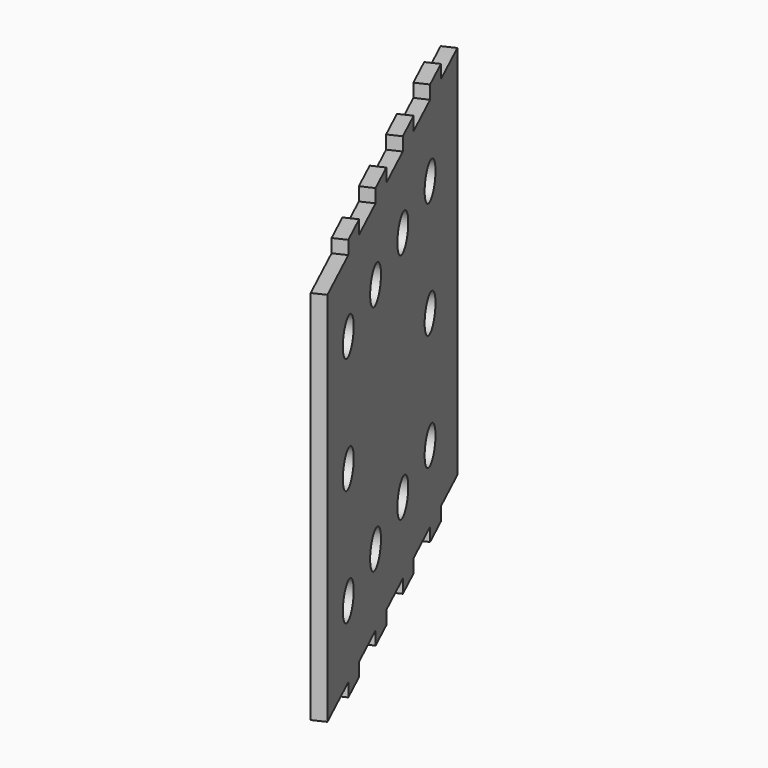
from build123d import *

# Parameters (mm, degrees)
F1_DEPTH  = 533.4
F3_DEPTH  = 19.05
F5_DEPTH  = 19.05
F7_R      = 25.4
F8_DEPTH  = 19.05
F9_R      = 25.4
F10_DEPTH = 25.4


with BuildPart() as f1:
    # F0 (on Top) → F1 (new body)
    with BuildSketch(Plane.XY):
        Polygon((-257.6280923571, 552.4852269775), (0, 0), (17.265163343, 8.0508778862), (-240.3629290141, 560.5361048637), align=None)
    extrude(amount=F1_DEPTH)

    # F2 (on face) → F3 (join)
    with BuildSketch(Plane(origin=(0, 0, 0), x_dir=(1, 0, 0), z_dir=(0, 0, -1))):
        Polygon((-225.056502435, -482.6352269775), (-207.791339092, -490.6861048637), (-186.3223313955, -444.6456692822), (-203.5874947386, -436.5947913961), align=None)
        Polygon((-171.0159048164, -366.7447913961), (-153.7507414734, -374.7956692822), (-132.281733777, -328.7552337008), (-149.54689712, -320.7043558146), align=None)
        Polygon((-116.9753071979, -250.8543558146), (-99.7101438548, -258.9052337008), (-78.2411361584, -212.8647981193), (-95.5062995015, -204.8139202332), align=None)
        Polygon((-62.9347095793, -134.9639202332), (-45.6695462363, -143.0147981193), (-24.2005385399, -96.9743625379), (-41.4657018829, -88.9234846517), align=None)
    extrude(amount=F3_DEPTH)

    # F4 (on face) → F5 (join)
    with BuildSketch(Plane.XY.offset(533.4)):
        Polygon((-207.791339092, 490.6861048637), (-225.056502435, 482.6352269775), (-203.5874947386, 436.5947913961), (-186.3223313955, 444.6456692822), align=None)
        Polygon((-171.0159048164, 366.7447913961), (-149.54689712, 320.7043558146), (-132.281733777, 328.7552337008), (-153.7507414734, 374.7956692822), align=None)
        Polygon((-78.2411361584, 212.8647981193), (-99.7101438548, 258.9052337008), (-116.9753071979, 250.8543558146), (-95.5062995015, 204.8139202332), align=None)
        Polygon((-24.2005385399, 96.9743625379), (-45.6695462363, 143.0147981193), (-62.9347095793, 134.9639202332), (-41.4657018829, 88.9234846517), align=None)
    extrude(amount=F5_DEPTH)

    # F7 (on face) → F8 (cut)
    with BuildSketch(Plane(origin=(0, 0, 0), x_dir=(0.4226182617, -0.906307787, 0), z_dir=(-0.906307787, -0.4226182617, 0))):
        with Locations((-98.1162094419, 431.8)):
            Circle(F7_R)
        with Locations((-98.1162094419, 101.6)):
            Circle(F7_R)
        with Locations((-353.8581047209, 101.6)):
            Circle(F7_R)
        with Locations((-481.7290523605, 101.6)):
            Circle(F7_R)
        with Locations((-225.9871570814, 101.6)):
            Circle(F7_R)
        with Locations((-225.9871570814, 431.8)):
            Circle(F7_R)
        with Locations((-353.8581047209, 431.8)):
            Circle(F7_R)
        with Locations((-481.7290523605, 431.8)):
            Circle(F7_R)
    extrude(amount=-F8_DEPTH, mode=Mode.SUBTRACT)

    # F9 (on face) → F10 (cut)
    with BuildSketch(Plane(origin=(17.265163343, 8.0508778862, 0), x_dir=(-0.4226182617, 0.906307787, 0), z_dir=(0.906307787, 0.4226182617, 0))):
        with Locations((481.7290523605, 266.7)):
            Circle(F9_R)
        with Locations((98.1162094419, 266.7)):
            Circle(F9_R)
    extrude(amount=-F10_DEPTH, mode=Mode.SUBTRACT)


solid = f1.part
